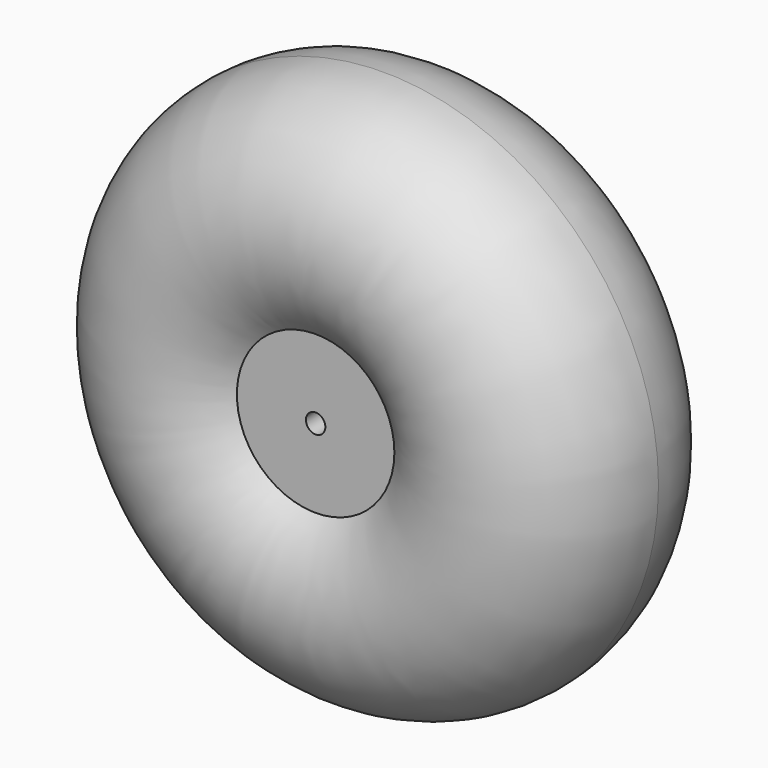
from build123d import *

# Parameters (mm, degrees)
F1_R          = 114.3
F3_R          = 88.9
F3_R_2        = 9.525
F4_DEPTH      = 83.82
F4_DEPTH_BACK = 83.82


with BuildPart() as f2:
    # F2: sweep along a path in F0
    with BuildLine(Plane.XZ) as f2_path:
        CenterArc((0, 0), 166.37, 0, 360)
    # F1 (on Top) → F2 (sweep)
    with BuildSketch(Plane.XY):
        with Locations((154.94, 0)):
            Circle(F1_R)
    sweep(path=f2_path.line)

    # F3 (on Front) → F4 (join, two sides)
    with BuildSketch(Plane.XZ) as f4_sk:
        Circle(F3_R)
        Circle(F3_R_2, mode=Mode.SUBTRACT)
    extrude(amount=F4_DEPTH)
    extrude(f4_sk.sketch, amount=-F4_DEPTH_BACK)


solid = f2.part
